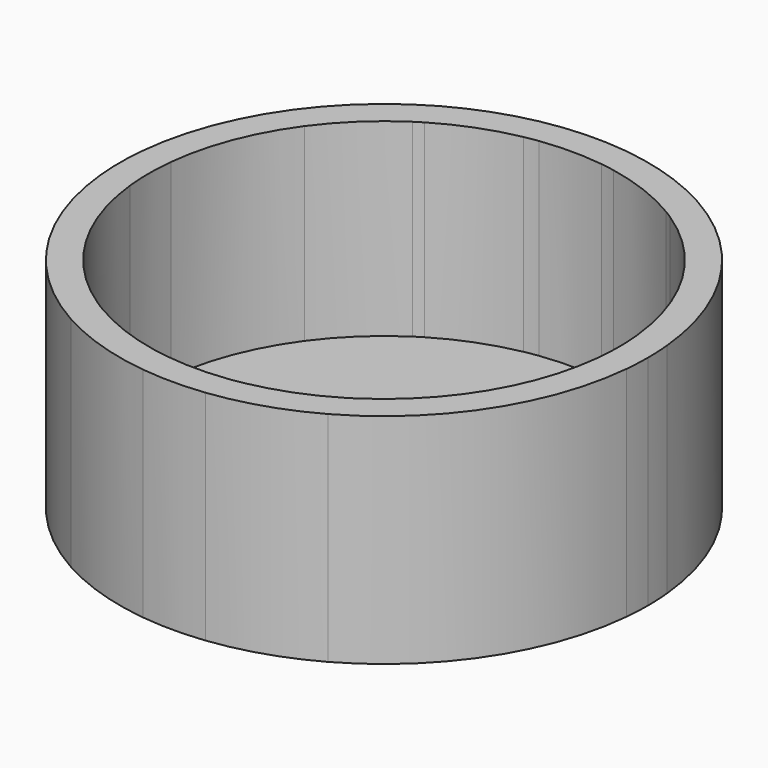
from build123d import *

# Parameters (mm, degrees)
F1_DEPTH    = 15
F0_W        = 4.3
F0_H        = 4.3570096321
F0_W_2      = 4.2223602247
F0_H_2      = 3.5
F0_H_3      = 7.7429903679
F0_W_3      = 6.1566238629
F0_H_4      = 2
F0_W_4      = 0.5364525249
F0_W_5      = 2
F1_FACE_R   = 18.15
F1_FACE_R_2 = 16.15
F2_DEPTH    = 2


with BuildPart() as f1:
    # F0 (on Top) → F1 (new body)
    with BuildSketch(Plane.XY):
        with BuildLine():
            ThreePointArc((18.0654366125, -1.75), (18.1288468265, -0.876020971), (18.15, 0))
            ThreePointArc((18.15, 0), (18.1288468265, 0.876020971), (18.0654366125, 1.75))
            Line((18.0654366125, 1.75), (18.0654366125, -1.75))
        make_face()
        with BuildLine():
            Line((16.0549057923, 1.75), (18.0654366125, 1.75))
            ThreePointArc((18.0654366125, 1.75), (15.1894541696, 9.9349374446), (8.8430763878, 15.85))
            Line((8.8430763878, 15.85), (8.8430763878, 13.5137892539))
            ThreePointArc((8.8430763878, 13.5137892539), (11.1372097669, 11.6955144653), (13.0654366125, 9.4929903679))
            ThreePointArc((13.0654366125, 9.4929903679), (15.0660897516, 5.816823841), (16.0549057923, 1.75))
        make_face()
        with BuildLine():
            Line((18.0654366125, -1.75), (18.0654366125, 1.75))
            Line((18.0654366125, 1.75), (16.0549057923, 1.75))
            ThreePointArc((16.0549057923, 1.75), (16.1262089244, 0.8762908918), (16.15, 0))
            ThreePointArc((16.15, 0), (16.1262089244, -0.8762908918), (16.0549057923, -1.75))
            Line((16.0549057923, -1.75), (18.0654366125, -1.75))
        make_face()
        with BuildLine():
            ThreePointArc((8.8430763878, -15.85), (15.1894541696, -9.9349374446), (18.0654366125, -1.75))
            Line((18.0654366125, -1.75), (16.0549057923, -1.75))
            ThreePointArc((16.0549057923, -1.75), (15.0660897516, -5.816823841), (13.0654366125, -9.4929903679))
            ThreePointArc((13.0654366125, -9.4929903679), (11.1372097669, -11.6955144653), (8.8430763878, -13.5137892539))
            Line((8.8430763878, -13.5137892539), (8.8430763878, -15.85))
        make_face()
        with BuildLine():
            Line((3.098386677, 15.85), (8.8430763878, 15.85))
            ThreePointArc((8.8430763878, 15.85), (5.6028166651, 17.2635727883), (2.15, 18.0222085217))
            Line((2.15, 18.0222085217), (2.15, 16.0062487798))
            ThreePointArc((2.15, 16.0062487798), (2.6253559945, 15.9351813891), (3.098386677, 15.85))
        make_face()
        with BuildLine():
            Line((8.8430763878, 13.5137892539), (8.8430763878, 15.85))
            Line((8.8430763878, 15.85), (3.098386677, 15.85))
            ThreePointArc((3.098386677, 15.85), (5.7895221179, 15.0766021917), (8.3066238629, 13.85))
            ThreePointArc((8.3066238629, 13.85), (8.5764977752, 13.684523591), (8.8430763878, 13.5137892539))
        make_face()
        with BuildLine():
            ThreePointArc((2.15, -18.0222085217), (5.6028166651, -17.2635727883), (8.8430763878, -15.85))
            Line((8.8430763878, -15.85), (3.098386677, -15.85))
            ThreePointArc((3.098386677, -15.85), (2.6253559945, -15.9351813891), (2.15, -16.0062487798))
            Line((2.15, -16.0062487798), (2.15, -18.0222085217))
        make_face()
        with BuildLine():
            Line((3.098386677, -15.85), (8.8430763878, -15.85))
            Line((8.8430763878, -15.85), (8.8430763878, -13.5137892539))
            ThreePointArc((8.8430763878, -13.5137892539), (8.5764977752, -13.684523591), (8.3066238629, -13.85))
            ThreePointArc((8.3066238629, -13.85), (5.7895221179, -15.0766021917), (3.098386677, -15.85))
        make_face()
        with BuildLine():
            Line((-2.15, 18.0222085217), (2.15, 18.0222085217))
            ThreePointArc((2.15, 18.0222085217), (0, 18.15), (-2.15, 18.0222085217))
        make_face()
        with BuildLine():
            Line((2.15, 16.0062487798), (2.15, 18.0222085217))
            Line((2.15, 18.0222085217), (-2.15, 18.0222085217))
            Line((-2.15, 18.0222085217), (-2.15, 16.0062487798))
            ThreePointArc((-2.15, 16.0062487798), (0, 16.15), (2.15, 16.0062487798))
        make_face()
        with BuildLine():
            ThreePointArc((-2.15, -18.0222085217), (0, -18.15), (2.15, -18.0222085217))
            Line((2.15, -18.0222085217), (-2.15, -18.0222085217))
        make_face()
        with BuildLine():
            Line((-2.15, -18.0222085217), (2.15, -18.0222085217))
            Line((2.15, -18.0222085217), (2.15, -16.0062487798))
            ThreePointArc((2.15, -16.0062487798), (0, -16.15), (-2.15, -16.0062487798))
            Line((-2.15, -16.0062487798), (-2.15, -18.0222085217))
        make_face()
        with BuildLine():
            Line((-2.15, 16.0062487798), (-2.15, 18.0222085217))
            ThreePointArc((-2.15, 18.0222085217), (-5.6028166651, 17.2635727883), (-8.8430763878, 15.85))
            Line((-8.8430763878, 15.85), (-3.098386677, 15.85))
            ThreePointArc((-3.098386677, 15.85), (-2.6253559945, 15.9351813891), (-2.15, 16.0062487798))
        make_face()
        with BuildLine():
            ThreePointArc((-8.8430763878, -15.85), (-5.6028166651, -17.2635727883), (-2.15, -18.0222085217))
            Line((-2.15, -18.0222085217), (-2.15, -16.0062487798))
            ThreePointArc((-2.15, -16.0062487798), (-2.6253559945, -15.9351813891), (-3.098386677, -15.85))
            Line((-3.098386677, -15.85), (-8.8430763878, -15.85))
        make_face()
        with BuildLine():
            Line((-8.8430763878, 13.5137892539), (-8.8430763878, 15.85))
            ThreePointArc((-8.8430763878, 15.85), (-15.1894541696, 9.9349374446), (-18.0654366125, 1.75))
            Line((-18.0654366125, 1.75), (-16.0549057923, 1.75))
            ThreePointArc((-16.0549057923, 1.75), (-15.0660897516, 5.816823841), (-13.0654366125, 9.4929903679))
            ThreePointArc((-13.0654366125, 9.4929903679), (-11.1372097669, 11.6955144653), (-8.8430763878, 13.5137892539))
        make_face()
        with BuildLine():
            Line((-3.098386677, 15.85), (-8.8430763878, 15.85))
            Line((-8.8430763878, 15.85), (-8.8430763878, 13.5137892539))
            ThreePointArc((-8.8430763878, 13.5137892539), (-8.5764977752, 13.684523591), (-8.3066238629, 13.85))
            ThreePointArc((-8.3066238629, 13.85), (-5.7895221179, 15.0766021917), (-3.098386677, 15.85))
        make_face()
        with BuildLine():
            Line((-8.8430763878, -13.5137892539), (-8.8430763878, -15.85))
            Line((-8.8430763878, -15.85), (-3.098386677, -15.85))
            ThreePointArc((-3.098386677, -15.85), (-5.7895221179, -15.0766021917), (-8.3066238629, -13.85))
            ThreePointArc((-8.3066238629, -13.85), (-8.5764977752, -13.684523591), (-8.8430763878, -13.5137892539))
        make_face()
        with BuildLine():
            ThreePointArc((-18.0654366125, -1.75), (-15.1894541696, -9.9349374446), (-8.8430763878, -15.85))
            Line((-8.8430763878, -15.85), (-8.8430763878, -13.5137892539))
            ThreePointArc((-8.8430763878, -13.5137892539), (-11.1372097669, -11.6955144653), (-13.0654366125, -9.4929903679))
            ThreePointArc((-13.0654366125, -9.4929903679), (-15.0660897516, -5.816823841), (-16.0549057923, -1.75))
            Line((-16.0549057923, -1.75), (-18.0654366125, -1.75))
        make_face()
        with BuildLine():
            Line((-18.0654366125, -1.75), (-18.0654366125, 1.75))
            ThreePointArc((-18.0654366125, 1.75), (-18.15, 0), (-18.0654366125, -1.75))
        make_face()
        with BuildLine():
            Line((-16.0549057923, 1.75), (-18.0654366125, 1.75))
            Line((-18.0654366125, 1.75), (-18.0654366125, -1.75))
            Line((-18.0654366125, -1.75), (-16.0549057923, -1.75))
            ThreePointArc((-16.0549057923, -1.75), (-16.15, 0), (-16.0549057923, 1.75))
        make_face()
    extrude(amount=F1_DEPTH)

    # F0 (on Top) + F1_face (on face) → F2 (join)
    with BuildSketch(Plane.XY):
        with BuildLine():
            Line((-2.15, 18.0222085217), (2.15, 18.0222085217))
            ThreePointArc((2.15, 18.0222085217), (0, 18.15), (-2.15, 18.0222085217))
        make_face()
        with BuildLine():
            Line((-18.0654366125, -1.75), (-18.0654366125, 1.75))
            ThreePointArc((-18.0654366125, 1.75), (-18.15, 0), (-18.0654366125, -1.75))
        make_face()
        with BuildLine():
            ThreePointArc((-2.15, -18.0222085217), (0, -18.15), (2.15, -18.0222085217))
            Line((2.15, -18.0222085217), (-2.15, -18.0222085217))
        make_face()
        with BuildLine():
            ThreePointArc((18.0654366125, -1.75), (18.1288468265, -0.876020971), (18.15, 0))
            ThreePointArc((18.15, 0), (18.1288468265, 0.876020971), (18.0654366125, 1.75))
            Line((18.0654366125, 1.75), (18.0654366125, -1.75))
        make_face()
        with BuildLine():
            Line((3.098386677, 15.85), (8.8430763878, 15.85))
            ThreePointArc((8.8430763878, 15.85), (5.6028166651, 17.2635727883), (2.15, 18.0222085217))
            Line((2.15, 18.0222085217), (2.15, 16.0062487798))
            ThreePointArc((2.15, 16.0062487798), (2.6253559945, 15.9351813891), (3.098386677, 15.85))
        make_face()
        with BuildLine():
            Line((-2.15, 16.0062487798), (-2.15, 18.0222085217))
            ThreePointArc((-2.15, 18.0222085217), (-5.6028166651, 17.2635727883), (-8.8430763878, 15.85))
            Line((-8.8430763878, 15.85), (-3.098386677, 15.85))
            ThreePointArc((-3.098386677, 15.85), (-2.6253559945, 15.9351813891), (-2.15, 16.0062487798))
        make_face()
        with BuildLine():
            ThreePointArc((-8.8430763878, -15.85), (-5.6028166651, -17.2635727883), (-2.15, -18.0222085217))
            Line((-2.15, -18.0222085217), (-2.15, -16.0062487798))
            ThreePointArc((-2.15, -16.0062487798), (-2.6253559945, -15.9351813891), (-3.098386677, -15.85))
            Line((-3.098386677, -15.85), (-8.8430763878, -15.85))
        make_face()
        with BuildLine():
            ThreePointArc((2.15, -18.0222085217), (5.6028166651, -17.2635727883), (8.8430763878, -15.85))
            Line((8.8430763878, -15.85), (3.098386677, -15.85))
            ThreePointArc((3.098386677, -15.85), (2.6253559945, -15.9351813891), (2.15, -16.0062487798))
            Line((2.15, -16.0062487798), (2.15, -18.0222085217))
        make_face()
        with BuildLine():
            Line((16.0549057923, 1.75), (18.0654366125, 1.75))
            ThreePointArc((18.0654366125, 1.75), (15.1894541696, 9.9349374446), (8.8430763878, 15.85))
            Line((8.8430763878, 15.85), (8.8430763878, 13.5137892539))
            ThreePointArc((8.8430763878, 13.5137892539), (11.1372097669, 11.6955144653), (13.0654366125, 9.4929903679))
            ThreePointArc((13.0654366125, 9.4929903679), (15.0660897516, 5.816823841), (16.0549057923, 1.75))
        make_face()
        with BuildLine():
            Line((-8.8430763878, 13.5137892539), (-8.8430763878, 15.85))
            ThreePointArc((-8.8430763878, 15.85), (-15.1894541696, 9.9349374446), (-18.0654366125, 1.75))
            Line((-18.0654366125, 1.75), (-16.0549057923, 1.75))
            ThreePointArc((-16.0549057923, 1.75), (-15.0660897516, 5.816823841), (-13.0654366125, 9.4929903679))
            ThreePointArc((-13.0654366125, 9.4929903679), (-11.1372097669, 11.6955144653), (-8.8430763878, 13.5137892539))
        make_face()
        with BuildLine():
            ThreePointArc((-18.0654366125, -1.75), (-15.1894541696, -9.9349374446), (-8.8430763878, -15.85))
            Line((-8.8430763878, -15.85), (-8.8430763878, -13.5137892539))
            ThreePointArc((-8.8430763878, -13.5137892539), (-11.1372097669, -11.6955144653), (-13.0654366125, -9.4929903679))
            ThreePointArc((-13.0654366125, -9.4929903679), (-15.0660897516, -5.816823841), (-16.0549057923, -1.75))
            Line((-16.0549057923, -1.75), (-18.0654366125, -1.75))
        make_face()
        with BuildLine():
            ThreePointArc((8.8430763878, -15.85), (15.1894541696, -9.9349374446), (18.0654366125, -1.75))
            Line((18.0654366125, -1.75), (16.0549057923, -1.75))
            ThreePointArc((16.0549057923, -1.75), (15.0660897516, -5.816823841), (13.0654366125, -9.4929903679))
            ThreePointArc((13.0654366125, -9.4929903679), (11.1372097669, -11.6955144653), (8.8430763878, -13.5137892539))
            Line((8.8430763878, -13.5137892539), (8.8430763878, -15.85))
        make_face()
        with BuildLine():
            Line((-3.098386677, 15.85), (-8.8430763878, 15.85))
            Line((-8.8430763878, 15.85), (-8.8430763878, 13.5137892539))
            ThreePointArc((-8.8430763878, 13.5137892539), (-8.5764977752, 13.684523591), (-8.3066238629, 13.85))
            ThreePointArc((-8.3066238629, 13.85), (-5.7895221179, 15.0766021917), (-3.098386677, 15.85))
        make_face()
        with BuildLine():
            Line((8.8430763878, 13.5137892539), (8.8430763878, 15.85))
            Line((8.8430763878, 15.85), (3.098386677, 15.85))
            ThreePointArc((3.098386677, 15.85), (5.7895221179, 15.0766021917), (8.3066238629, 13.85))
            ThreePointArc((8.3066238629, 13.85), (8.5764977752, 13.684523591), (8.8430763878, 13.5137892539))
        make_face()
        with BuildLine():
            Line((-8.8430763878, -13.5137892539), (-8.8430763878, -15.85))
            Line((-8.8430763878, -15.85), (-3.098386677, -15.85))
            ThreePointArc((-3.098386677, -15.85), (-5.7895221179, -15.0766021917), (-8.3066238629, -13.85))
            ThreePointArc((-8.3066238629, -13.85), (-8.5764977752, -13.684523591), (-8.8430763878, -13.5137892539))
        make_face()
        with BuildLine():
            Line((3.098386677, -15.85), (8.8430763878, -15.85))
            Line((8.8430763878, -15.85), (8.8430763878, -13.5137892539))
            ThreePointArc((8.8430763878, -13.5137892539), (8.5764977752, -13.684523591), (8.3066238629, -13.85))
            ThreePointArc((8.3066238629, -13.85), (5.7895221179, -15.0766021917), (3.098386677, -15.85))
        make_face()
        with BuildLine():
            Line((2.15, 16.0062487798), (2.15, 18.0222085217))
            Line((2.15, 18.0222085217), (-2.15, 18.0222085217))
            Line((-2.15, 18.0222085217), (-2.15, 16.0062487798))
            ThreePointArc((-2.15, 16.0062487798), (0, 16.15), (2.15, 16.0062487798))
        make_face()
        with BuildLine():
            Line((-2.15, -18.0222085217), (2.15, -18.0222085217))
            Line((2.15, -18.0222085217), (2.15, -16.0062487798))
            ThreePointArc((2.15, -16.0062487798), (0, -16.15), (-2.15, -16.0062487798))
            Line((-2.15, -16.0062487798), (-2.15, -18.0222085217))
        make_face()
        with BuildLine():
            Line((-16.0549057923, 1.75), (-18.0654366125, 1.75))
            Line((-18.0654366125, 1.75), (-18.0654366125, -1.75))
            Line((-18.0654366125, -1.75), (-16.0549057923, -1.75))
            ThreePointArc((-16.0549057923, -1.75), (-16.15, 0), (-16.0549057923, 1.75))
        make_face()
        with BuildLine():
            Line((18.0654366125, -1.75), (18.0654366125, 1.75))
            Line((18.0654366125, 1.75), (16.0549057923, 1.75))
            ThreePointArc((16.0549057923, 1.75), (16.1262089244, 0.8762908918), (16.15, 0))
            ThreePointArc((16.15, 0), (16.1262089244, -0.8762908918), (16.0549057923, -1.75))
            Line((16.0549057923, -1.75), (18.0654366125, -1.75))
        make_face()
        with Locations((0, 11.6714951839)):
            Rectangle(F0_W, F0_H)
        with Locations((10.9542565001, 0)):
            Rectangle(F0_W_2, F0_H_2)
        with Locations((-10.9542565001, 5.6214951839)):
            Rectangle(F0_W_2, F0_H_3)
        with BuildLine():
            Line((2.15, -15.85), (3.098386677, -15.85))
            ThreePointArc((3.098386677, -15.85), (5.7895221179, -15.0766021917), (8.3066238629, -13.85))
            Line((8.3066238629, -13.85), (2.15, -13.85))
            Line((2.15, -13.85), (2.15, -15.85))
        make_face()
        with Locations((-10.9542565001, -5.6214951839)):
            Rectangle(F0_W_2, F0_H_3)
        with BuildLine():
            ThreePointArc((13.0654366125, 9.4929903679), (11.1372097669, 11.6955144653), (8.8430763878, 13.5137892539))
            Line((8.8430763878, 13.5137892539), (8.8430763878, 9.4929903679))
            Line((8.8430763878, 9.4929903679), (13.0654366125, 9.4929903679))
        make_face()
        with BuildLine():
            ThreePointArc((-13.0654366125, -9.4929903679), (-11.1372097669, -11.6955144653), (-8.8430763878, -13.5137892539))
            Line((-8.8430763878, -13.5137892539), (-8.8430763878, -9.4929903679))
            Line((-8.8430763878, -9.4929903679), (-13.0654366125, -9.4929903679))
        make_face()
        with BuildLine():
            Line((8.8430763878, -9.4929903679), (8.8430763878, -13.5137892539))
            ThreePointArc((8.8430763878, -13.5137892539), (11.1372097669, -11.6955144653), (13.0654366125, -9.4929903679))
            Line((13.0654366125, -9.4929903679), (8.8430763878, -9.4929903679))
        make_face()
        with Locations((10.9542565001, 5.6214951839)):
            Rectangle(F0_W_2, F0_H_3)
        with BuildLine():
            ThreePointArc((-13.0654366125, 9.4929903679), (-15.0660897516, 5.816823841), (-16.0549057923, 1.75))
            Line((-16.0549057923, 1.75), (-15.0654366125, 1.75))
            Line((-15.0654366125, 1.75), (-13.0654366125, 1.75))
            Line((-13.0654366125, 1.75), (-13.0654366125, 9.4929903679))
        make_face()
        with BuildLine():
            ThreePointArc((13.0654366125, -9.4929903679), (15.0660897516, -5.816823841), (16.0549057923, -1.75))
            Line((16.0549057923, -1.75), (15.0654366125, -1.75))
            Line((15.0654366125, -1.75), (13.0654366125, -1.75))
            Line((13.0654366125, -1.75), (13.0654366125, -9.4929903679))
        make_face()
        with Locations((0, -5.6214951839)):
            Rectangle(F0_W, F0_H_3)
        with Locations((5.2283119315, 11.6714951839)):
            Rectangle(F0_W_3, F0_H)
        with Locations((-5.2283119315, 5.6214951839)):
            Rectangle(F0_W_3, F0_H_3)
        with Locations((10.9542565001, -5.6214951839)):
            Rectangle(F0_W_2, F0_H_3)
        with Locations((5.2283119315, 0)):
            Rectangle(F0_W_3, F0_H_2)
        with BuildLine():
            Line((15.0654366125, 1.75), (16.0549057923, 1.75))
            ThreePointArc((16.0549057923, 1.75), (15.0660897516, 5.816823841), (13.0654366125, 9.4929903679))
            Line((13.0654366125, 9.4929903679), (13.0654366125, 1.75))
            Line((13.0654366125, 1.75), (15.0654366125, 1.75))
        make_face()
        with BuildLine():
            Line((-2.15, 13.85), (-2.15, 15.85))
            Line((-2.15, 15.85), (-3.098386677, 15.85))
            ThreePointArc((-3.098386677, 15.85), (-5.7895221179, 15.0766021917), (-8.3066238629, 13.85))
            Line((-8.3066238629, 13.85), (-2.15, 13.85))
        make_face()
        with BuildLine():
            Line((-15.0654366125, -1.75), (-16.0549057923, -1.75))
            ThreePointArc((-16.0549057923, -1.75), (-15.0660897516, -5.816823841), (-13.0654366125, -9.4929903679))
            Line((-13.0654366125, -9.4929903679), (-13.0654366125, -1.75))
            Line((-13.0654366125, -1.75), (-15.0654366125, -1.75))
        make_face()
        with Locations((0, 14.85)):
            Rectangle(F0_W, F0_H_4)
        with Locations((-5.2283119315, 0)):
            Rectangle(F0_W_3, F0_H_2)
        with Locations((-5.2283119315, -11.6714951839)):
            Rectangle(F0_W_3, F0_H)
        with BuildLine():
            Line((-8.8430763878, 9.4929903679), (-8.8430763878, 13.5137892539))
            ThreePointArc((-8.8430763878, 13.5137892539), (-11.1372097669, 11.6955144653), (-13.0654366125, 9.4929903679))
            Line((-13.0654366125, 9.4929903679), (-8.8430763878, 9.4929903679))
        make_face()
        with Locations((5.2283119315, -11.6714951839)):
            Rectangle(F0_W_3, F0_H)
        with Locations((0, 5.6214951839)):
            Rectangle(F0_W, F0_H_3)
        with Locations((5.2283119315, 5.6214951839)):
            Rectangle(F0_W_3, F0_H_3)
        with Locations((0, -11.6714951839)):
            Rectangle(F0_W, F0_H)
        with Locations((-10.9542565001, 0)):
            Rectangle(F0_W_2, F0_H_2)
        with Locations((-5.2283119315, 11.6714951839)):
            Rectangle(F0_W_3, F0_H)
        with Locations((-5.2283119315, -5.6214951839)):
            Rectangle(F0_W_3, F0_H_3)
        with Locations((5.2283119315, -5.6214951839)):
            Rectangle(F0_W_3, F0_H_3)
        with Locations((-8.5748501253, 5.6214951839)):
            Rectangle(F0_W_4, F0_H_3)
        with Locations((-8.5748501253, 0)):
            Rectangle(F0_W_4, F0_H_2)
        with BuildLine():
            Line((2.15, 15.85), (2.15, 16.0062487798))
            ThreePointArc((2.15, 16.0062487798), (0, 16.15), (-2.15, 16.0062487798))
            Line((-2.15, 16.0062487798), (-2.15, 15.85))
            Line((-2.15, 15.85), (2.15, 15.85))
        make_face()
        with BuildLine():
            ThreePointArc((8.3066238629, 13.85), (5.7895221179, 15.0766021917), (3.098386677, 15.85))
            Line((3.098386677, 15.85), (2.15, 15.85))
            Line((2.15, 15.85), (2.15, 13.85))
            Line((2.15, 13.85), (8.3066238629, 13.85))
        make_face()
        with BuildLine():
            Line((8.8430763878, 9.4929903679), (8.8430763878, 13.5137892539))
            ThreePointArc((8.8430763878, 13.5137892539), (8.5764977752, 13.684523591), (8.3066238629, 13.85))
            Line((8.3066238629, 13.85), (8.3066238629, 9.4929903679))
            Line((8.3066238629, 9.4929903679), (8.8430763878, 9.4929903679))
        make_face()
        with Locations((0, -14.85)):
            Rectangle(F0_W, F0_H_4)
        with BuildLine():
            Line((-8.8430763878, -9.4929903679), (-8.8430763878, -13.5137892539))
            ThreePointArc((-8.8430763878, -13.5137892539), (-8.5764977752, -13.684523591), (-8.3066238629, -13.85))
            Line((-8.3066238629, -13.85), (-8.3066238629, -9.4929903679))
            Line((-8.3066238629, -9.4929903679), (-8.8430763878, -9.4929903679))
        make_face()
        with BuildLine():
            Line((-3.098386677, -15.85), (-2.15, -15.85))
            Line((-2.15, -15.85), (-2.15, -13.85))
            Line((-2.15, -13.85), (-8.3066238629, -13.85))
            ThreePointArc((-8.3066238629, -13.85), (-5.7895221179, -15.0766021917), (-3.098386677, -15.85))
        make_face()
        with Locations((8.5748501253, 0)):
            Rectangle(F0_W_4, F0_H_2)
        with BuildLine():
            ThreePointArc((-8.3066238629, 13.85), (-8.5764977752, 13.684523591), (-8.8430763878, 13.5137892539))
            Line((-8.8430763878, 13.5137892539), (-8.8430763878, 9.4929903679))
            Line((-8.8430763878, 9.4929903679), (-8.3066238629, 9.4929903679))
            Line((-8.3066238629, 9.4929903679), (-8.3066238629, 13.85))
        make_face()
        with Locations((8.5748501253, -5.6214951839)):
            Rectangle(F0_W_4, F0_H_3)
        with Locations((-8.5748501253, -5.6214951839)):
            Rectangle(F0_W_4, F0_H_3)
        with Locations((8.5748501253, 5.6214951839)):
            Rectangle(F0_W_4, F0_H_3)
        with BuildLine():
            ThreePointArc((8.3066238629, -13.85), (8.5764977752, -13.684523591), (8.8430763878, -13.5137892539))
            Line((8.8430763878, -13.5137892539), (8.8430763878, -9.4929903679))
            Line((8.8430763878, -9.4929903679), (8.3066238629, -9.4929903679))
            Line((8.3066238629, -9.4929903679), (8.3066238629, -13.85))
        make_face()
        with BuildLine():
            Line((-15.0654366125, 1.75), (-16.0549057923, 1.75))
            ThreePointArc((-16.0549057923, 1.75), (-16.15, 0), (-16.0549057923, -1.75))
            Line((-16.0549057923, -1.75), (-15.0654366125, -1.75))
            Line((-15.0654366125, -1.75), (-15.0654366125, 1.75))
        make_face()
        with BuildLine():
            ThreePointArc((-2.15, -16.0062487798), (0, -16.15), (2.15, -16.0062487798))
            Line((2.15, -16.0062487798), (2.15, -15.85))
            Line((2.15, -15.85), (-2.15, -15.85))
            Line((-2.15, -15.85), (-2.15, -16.0062487798))
        make_face()
        with BuildLine():
            ThreePointArc((16.15, 0), (16.1262089244, 0.8762908918), (16.0549057923, 1.75))
            Line((16.0549057923, 1.75), (15.0654366125, 1.75))
            Line((15.0654366125, 1.75), (15.0654366125, -1.75))
            Line((15.0654366125, -1.75), (16.0549057923, -1.75))
            ThreePointArc((16.0549057923, -1.75), (16.1262089244, -0.8762908918), (16.15, 0))
        make_face()
        with Locations((14.0654366125, 0)):
            Rectangle(F0_W_5, F0_H_2)
        with BuildLine():
            ThreePointArc((2.15, -16.0062487798), (2.6253559945, -15.9351813891), (3.098386677, -15.85))
            Line((3.098386677, -15.85), (2.15, -15.85))
            Line((2.15, -15.85), (2.15, -16.0062487798))
        make_face()
        with BuildLine():
            ThreePointArc((-3.098386677, -15.85), (-2.6253559945, -15.9351813891), (-2.15, -16.0062487798))
            Line((-2.15, -16.0062487798), (-2.15, -15.85))
            Line((-2.15, -15.85), (-3.098386677, -15.85))
        make_face()
        with BuildLine():
            Line((2.15, 15.85), (3.098386677, 15.85))
            ThreePointArc((3.098386677, 15.85), (2.6253559945, 15.9351813891), (2.15, 16.0062487798))
            Line((2.15, 16.0062487798), (2.15, 15.85))
        make_face()
        with BuildLine():
            Line((-2.15, 15.85), (-2.15, 16.0062487798))
            ThreePointArc((-2.15, 16.0062487798), (-2.6253559945, 15.9351813891), (-3.098386677, 15.85))
            Line((-3.098386677, 15.85), (-2.15, 15.85))
        make_face()
        with Locations((-14.0654366125, 0)):
            Rectangle(F0_W_5, F0_H_2)
        Rectangle(F0_W, F0_H_2)
    with BuildSketch(Plane(origin=(0, 0, 0), x_dir=(1, 0, 0), z_dir=(0, 0, -1))):
        Circle(F1_FACE_R)
        Circle(F1_FACE_R_2, mode=Mode.SUBTRACT)
    extrude(amount=F2_DEPTH, dir=(0, 0, 1))


solid = f1.part
